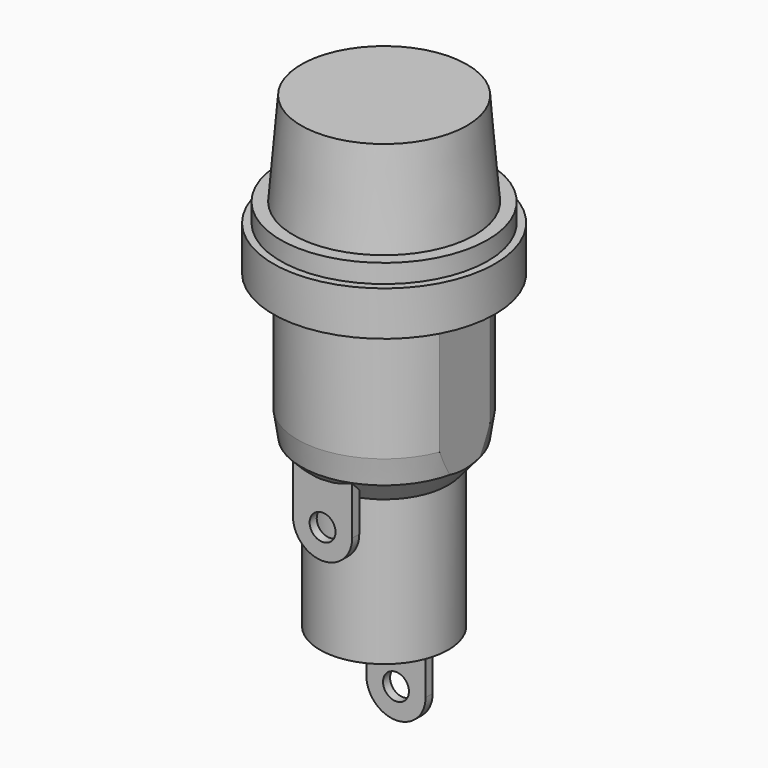
from build123d import *

# Parameters (mm, degrees)
SKETCH042_R             = 10.5
POCKET019_DEPTH         = 13
PAD021_DEPTH            = 0.6
SKETCH045_R             = 0.875
POCKET020_DEPTH         = 0.601
BODY012_PLACEMENT_ANGLE = 90
PAD022_DEPTH            = 0.6
SKETCH047_R             = 0.875
POCKET021_DEPTH         = 0.601
BODY013_PLACEMENT_ANGLE = 90


with BuildPart() as corps002:
    # Sketch041 → Revolution (revolve)
    with BuildSketch(Plane.XZ):
        Polygon((3.565, -12), (3.565, 0), (7.5, 0), (7.5, -3), (5.85, -3), (5.85, -11), (5.5925, -12.710466), (4.335, -14.2), (4.335, -24), (0, -24), (0, -12), align=None)
    revolve(axis=Axis((0, 0, 0), (0, 0, 1)))

    # Sketch042 (on DatumPlane) → Pocket019 (cut)
    with BuildSketch(Plane.XY.offset(-3)):
        Circle(SKETCH042_R)
        with BuildLine():
            ThreePointArc((-5.45, -2.126029), (0, -5.85), (5.45, -2.126029))
            Line((5.45, -2.126029), (5.45, 2.126029))
            ThreePointArc((5.45, 2.126029), (0, 5.85), (-5.45, 2.126029))
            Line((-5.45, 2.126029), (-5.45, -2.126029))
        make_face(mode=Mode.SUBTRACT)
    extrude(amount=-POCKET019_DEPTH, mode=Mode.SUBTRACT)


with BuildPart() as obj1:
    # Sketch043 → Revolution001 (revolve)
    with BuildSketch(Plane.XZ):
        Polygon((0, 7.6), (5.6, 7.6), (6.125, 1.26), (7, 1.26), (7, 0), (4, 0), (4, -4.4), (0, -4.4), align=None)
    revolve(axis=Axis((0, 0, 0), (0, 0, 1)))


with BuildPart() as obj2:
    # Sketch044 (on DatumPlane) → Pad021 (new body)
    with BuildSketch(Plane.YZ.offset(1)):
        with BuildLine():
            Line((0, -24), (2, -24))
            Line((2, -24), (2, -28))
            ThreePointArc((-2, -28), (0, -30), (2, -28))
            Line((-2, -24), (-2, -28))
            Line((0, -24), (-2, -24))
        make_face()
    extrude(amount=PAD021_DEPTH)

    # Sketch045 (on Face7 of Pad021) → Pocket020 (cut, through all)
    with BuildSketch(Plane.YZ.offset(1.6)):
        with Locations((0, -28)):
            Circle(SKETCH045_R)
    extrude(amount=-POCKET020_DEPTH, mode=Mode.SUBTRACT)


with BuildPart() as obj2_1:
    # Body012 placement: moved
    add(obj2.part.rotate(Axis((0, 0, 0), (0, 0, 1)), BODY012_PLACEMENT_ANGLE))


with BuildPart() as obj3:
    # Sketch046 (on DatumPlane) → Pad022 (new body)
    with BuildSketch(Plane.YZ.offset(1)):
        with BuildLine():
            Line((0, -24), (2, -24))
            Line((2, -24), (2, -28))
            ThreePointArc((-2, -28), (0, -30), (2, -28))
            Line((-2, -24), (-2, -28))
            Line((0, -24), (-2, -24))
        make_face()
    extrude(amount=PAD022_DEPTH)

    # Sketch047 (on Face7 of Pad022) → Pocket021 (cut, through all)
    with BuildSketch(Plane.YZ.offset(1.6)):
        with Locations((0, -28)):
            Circle(SKETCH047_R)
    extrude(amount=-POCKET021_DEPTH, mode=Mode.SUBTRACT)


with BuildPart() as obj3_1:
    # Body013 placement: moved
    add(obj3.part.moved(Location((0, -6.2, 12))).rotate(Axis((0, -6.2, 12), (0, 0, 1)), BODY013_PLACEMENT_ANGLE))


solid = Compound([corps002.part, obj1.part, obj2_1.part, obj3_1.part])
